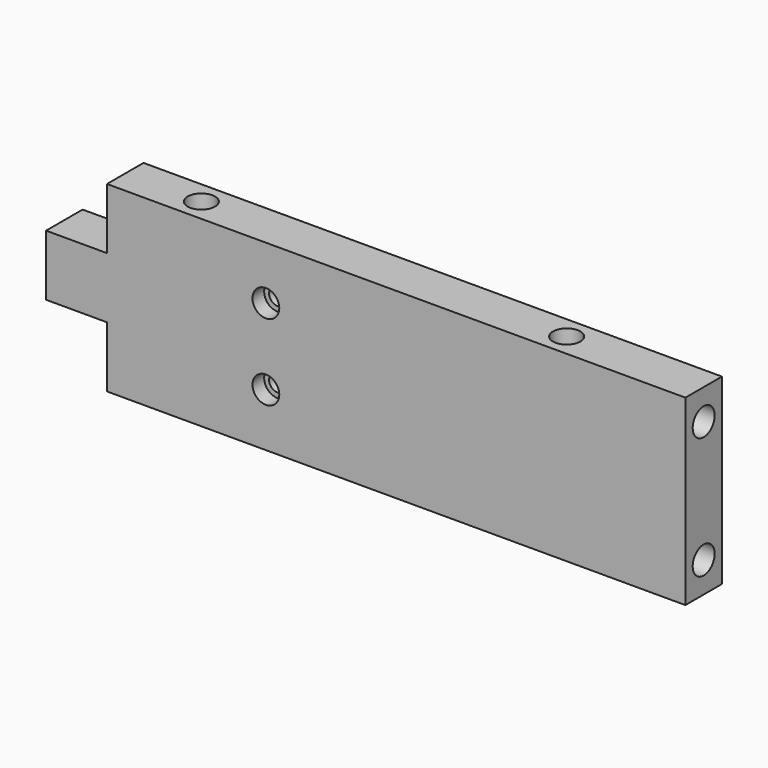
from build123d import *

# Parameters (mm, degrees)
PAD003_DEPTH    = 9.525
SKETCH090_R     = 2.8575
POCKET018_DEPTH = 6.096
SKETCH091_R     = 2.8575
POCKET019_DEPTH = 6.096
SKETCH092_R     = 2.8575
POCKET020_DEPTH = 6.096
SKETCH093_R     = 2.8575
POCKET021_DEPTH = 6.096
SKETCH111_R     = 1.778
POCKET035_DEPTH = 9.526
SKETCH112_R     = 2.794
POCKET036_DEPTH = 3.048


with BuildPart() as part:
    # Sketch005 → Pad003 (new body)
    with BuildSketch(Plane.XZ):
        Polygon((66.675, -19.05), (66.675, 19.05), (-53.975, 19.05), (-53.975, 6.35), (-66.675, 6.35), (-66.675, -6.35), (-53.975, -6.35), (-53.975, -19.05), align=None)
    extrude(amount=PAD003_DEPTH)

    # Sketch090 (on Face6 of Pad003) → Pocket018 (cut)
    with BuildSketch(Plane(origin=(0, 0, 19.05), x_dir=(-1, 0, 0), z_dir=(0, 0, 1))):
        with Locations((38.1, 4.7625)):
            Circle(SKETCH090_R)
        with Locations((-38.1, 4.7625)):
            Circle(SKETCH090_R)
    extrude(amount=-POCKET018_DEPTH, mode=Mode.SUBTRACT)

    # Sketch091 (on Face4 of Pad003) → Pocket019 (cut)
    with BuildSketch(Plane(origin=(0, 0, -19.05), x_dir=(1, 0, 0), z_dir=(0, 0, -1))):
        with Locations((38.1, 4.7625)):
            Circle(SKETCH091_R)
        with Locations((-38.1, 4.7625)):
            Circle(SKETCH091_R)
    extrude(amount=-POCKET019_DEPTH, mode=Mode.SUBTRACT)

    # Sketch092 (on Face9 of Pocket019) → Pocket020 (cut)
    with BuildSketch(Plane(origin=(66.675, 0, 0), x_dir=(0, 0, 1), z_dir=(1, 0, 0))):
        with Locations((12.7, 4.7625)):
            Circle(SKETCH092_R)
        with Locations((-12.7, 4.7625)):
            Circle(SKETCH092_R)
    extrude(amount=-POCKET020_DEPTH, mode=Mode.SUBTRACT)

    # Sketch093 (on Face1 of Pocket019) → Pocket021 (cut)
    with BuildSketch(Plane(origin=(-66.675, 0, 0), x_dir=(0, 0, -1), z_dir=(-1, 0, 0))):
        with Locations((0, 4.7625)):
            Circle(SKETCH093_R)
    extrude(amount=-POCKET021_DEPTH, mode=Mode.SUBTRACT)

    # Sketch111 (on Face4 of Pocket021) → Pocket035 (cut, through all)
    with BuildSketch(Plane.XZ.offset(9.525)):
        with Locations((-20.828, 7.9375)):
            Circle(SKETCH111_R)
        with Locations((-20.828, -7.9375)):
            Circle(SKETCH111_R)
    extrude(amount=-POCKET035_DEPTH, mode=Mode.SUBTRACT)

    # Sketch112 (on Face4 of Pocket035) → Pocket036 (cut)
    with BuildSketch(Plane.XZ.offset(9.525)):
        with Locations((-20.828, 7.9375)):
            Circle(SKETCH112_R)
        with Locations((-20.828, -7.9375)):
            Circle(SKETCH112_R)
    extrude(amount=-POCKET036_DEPTH, mode=Mode.SUBTRACT)


with BuildPart() as part_1:
    # Body003 placement: moved
    add(part.part.moved(Location((-66.7258, -20.066, 0))))


solid = part_1.part
